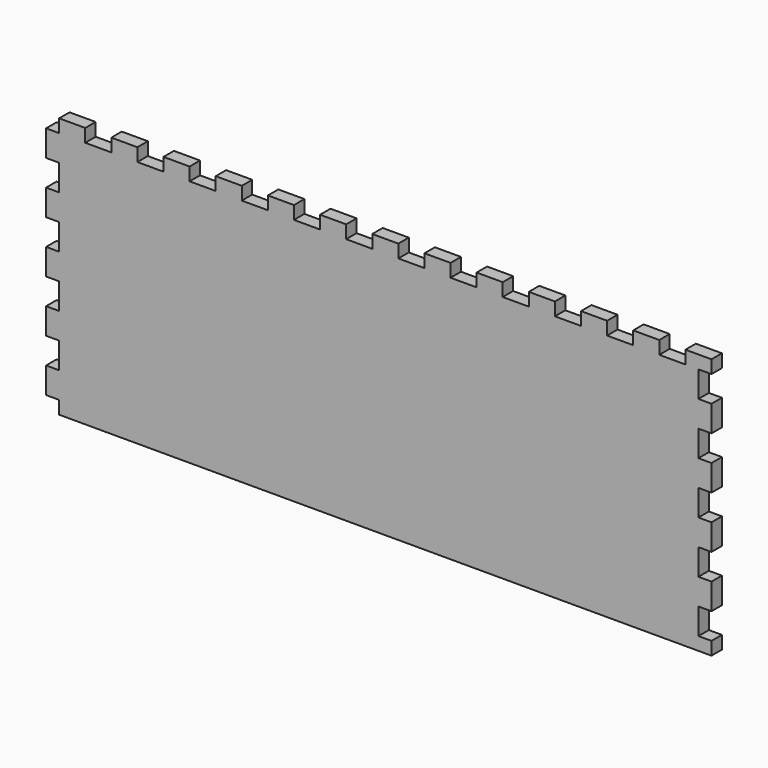
from build123d import *

# Parameters (mm, degrees)
SKETCH013_W             = 95
SKETCH013_H             = 250
PAD011_DEPTH            = 5
SKETCH036_W             = 10
SKETCH036_H             = 5
PAD028_DEPTH            = 5
LINEARPATTERN016_COUNT  = 5
LINEARPATTERN016_PITCH  = 20
SKETCH040_W             = 10
SKETCH040_H             = 5
PAD029_DEPTH            = 5
LINEARPATTERN020_COUNT  = 13
LINEARPATTERN020_PITCH  = 20
SKETCH049_W             = 10
SKETCH049_H             = 5
POCKET015_DEPTH         = 5
LINEARPATTERN029_COUNT  = 5
LINEARPATTERN029_PITCH  = 20
BODY011_PITCH_ANGLE     = -90
BODY011_PLACEMENT_ANGLE = -90


with BuildPart() as part:
    # Sketch013 → Pad011 (new body)
    with BuildSketch(Plane.XY):
        Rectangle(SKETCH013_W, SKETCH013_H)
    extrude(amount=PAD011_DEPTH)

    # Sketch036 (on DatumPlane) → Pad028 (join)
    with BuildSketch(Plane.XZ.offset(125)):
        with Locations((-37.5, 2.5)):
            Rectangle(SKETCH036_W, SKETCH036_H)
    pad028 = extrude(amount=PAD028_DEPTH)

    # LinearPattern016: Pad028 ×5
    with Locations(*[(i * LINEARPATTERN016_PITCH, 0, 0) for i in range(1, LINEARPATTERN016_COUNT)]):
        add(pad028)

    # Sketch040 (on DatumPlane) → Pad029 (join)
    with BuildSketch(Plane.YZ.offset(47.5)):
        with Locations((-120, 2.5)):
            Rectangle(SKETCH040_W, SKETCH040_H)
    pad029 = extrude(amount=PAD029_DEPTH)

    # LinearPattern020: Pad029 ×13
    with Locations(*[(0, i * LINEARPATTERN020_PITCH, 0) for i in range(1, LINEARPATTERN020_COUNT)]):
        add(pad029)

    # Sketch049 (on DatumPlane) → Pocket015 (cut)
    with BuildSketch(Plane(origin=(0, 125, 0), x_dir=(-1, 0, 0), z_dir=(0, 1, 0))):
        with Locations((-42.5, 2.5)):
            Rectangle(SKETCH049_W, SKETCH049_H)
    pocket015 = extrude(amount=-POCKET015_DEPTH, mode=Mode.SUBTRACT)

    # LinearPattern029: Pocket015 ×5
    with Locations(*[(-i * LINEARPATTERN029_PITCH, 0, 0) for i in range(1, LINEARPATTERN029_COUNT)]):
        add(pocket015, mode=Mode.SUBTRACT)


with BuildPart() as part_1:
    # Body011 pitch: moved
    add(part.part.rotate(Axis((0, 0, 0), (0, 1, 0)), BODY011_PITCH_ANGLE))


with BuildPart() as part_2:
    # Body011 placement: moved
    add(part_1.part.moved(Location((-125, -150, 152.5))).rotate(Axis((-125, -150, 152.5), (0, 0, 1)), BODY011_PLACEMENT_ANGLE))


solid = part_2.part
